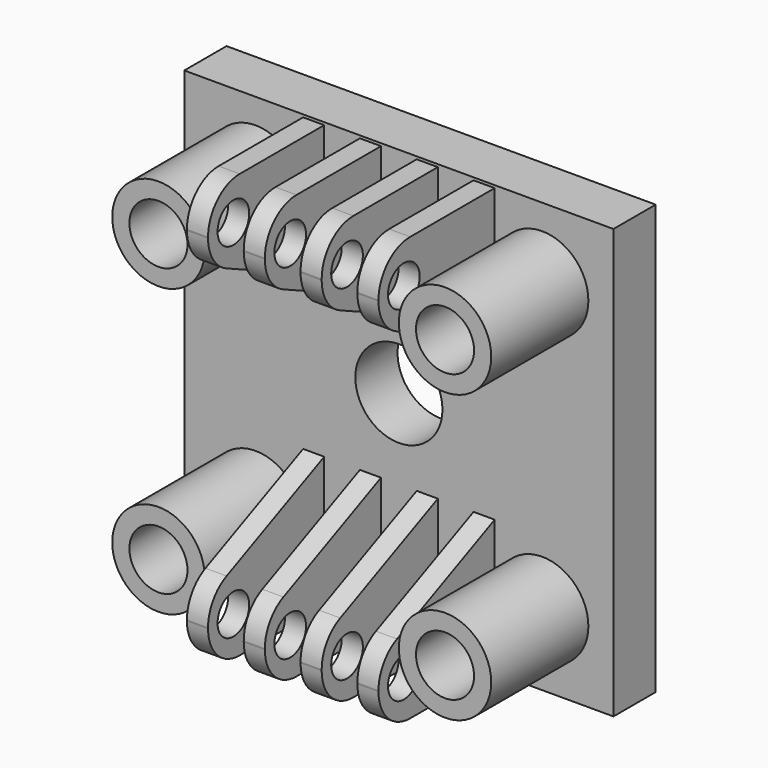
from build123d import *

# Parameters (mm, degrees)
F0_W      = 812.8
F0_H      = 812.8
F0_R      = 55
F0_R_2    = 82.5
F1_DEPTH  = 100
F2_R      = 87.5
F2_R_2    = 55
F3_DEPTH  = 230
F4_W      = 40
F4_H      = 250
F5_DEPTH  = 275
F7_DEPTH  = 362.8
F8_R      = 75
F9_R      = 37.5
F10_DEPTH = 362.8


with BuildPart() as f1:
    # F0 (on Front) → F1 (new body)
    with BuildSketch(Plane.XZ):
        Rectangle(F0_W, F0_H)
        with Locations((-271.4, -271.4)):
            Circle(F0_R, mode=Mode.SUBTRACT)
        Circle(F0_R_2, mode=Mode.SUBTRACT)
        with Locations((271.4, -271.4)):
            Circle(F0_R, mode=Mode.SUBTRACT)
        with Locations((-271.4, 271.4)):
            Circle(F0_R, mode=Mode.SUBTRACT)
        with Locations((271.4, 271.4)):
            Circle(F0_R, mode=Mode.SUBTRACT)
    extrude(amount=F1_DEPTH)

    # F2 (on face) → F3 (join)
    with BuildSketch(Plane.XZ.offset(100)):
        with Locations((-271.4, 271.4)):
            Circle(F2_R)
        with Locations((-271.4, 271.4)):
            Circle(F2_R_2, mode=Mode.SUBTRACT)
        with Locations((271.4, 271.4)):
            Circle(F2_R)
        with Locations((271.4, 271.4)):
            Circle(F2_R_2, mode=Mode.SUBTRACT)
        with Locations((271.4, -271.4)):
            Circle(F2_R)
        with Locations((271.4, -271.4)):
            Circle(F2_R_2, mode=Mode.SUBTRACT)
        with Locations((-271.4, -271.4)):
            Circle(F2_R)
        with Locations((-271.4, -271.4)):
            Circle(F2_R_2, mode=Mode.SUBTRACT)
    extrude(amount=F3_DEPTH)

    # F4 (on face) → F5 (join)
    with BuildSketch(Plane.XZ.offset(100)):
        with Locations((-53.8, 276.4)):
            Rectangle(F4_W, F4_H)
        with Locations((53.8, 276.4)):
            Rectangle(F4_W, F4_H)
        with Locations((161.4, 276.4)):
            Rectangle(F4_W, F4_H)
        with Locations((161.4, -276.4)):
            Rectangle(F4_W, F4_H)
        with Locations((53.8, -276.4)):
            Rectangle(F4_W, F4_H)
        with Locations((-53.8, -276.4)):
            Rectangle(F4_W, F4_H)
        with Locations((-161.4, 276.4)):
            Rectangle(F4_W, F4_H)
        with Locations((-161.4, -276.4)):
            Rectangle(F4_W, F4_H)
    extrude(amount=F5_DEPTH)

    # F6 (on face) → F7 (cut, through all)
    with BuildSketch(Plane(origin=(-181.4, 0, 0), x_dir=(0, -1, 0), z_dir=(-1, 0, 0))):
        Polygon((375, 151.4), (375, 276.4), (100, 151.4), align=None)
        Polygon((375, -151.4), (100, -151.4), (375, -276.4), align=None)
    extrude(amount=-F7_DEPTH, mode=Mode.SUBTRACT)

    # F8
    f8_edges = [f1.edges().sort_by_distance(p)[0] for p in [
        (161.4, -375, 401.4),
        (161.4, -375, 276.4),
        (53.8, -375, 401.4),
        (53.8, -375, 276.4),
        (-53.8, -375, 401.4),
        (-53.8, -375, 276.4),
        (-161.4, -375, 401.4),
        (-161.4, -375, 276.4),
        (-161.4, -375, -276.4),
        (-161.4, -375, -401.4),
        (-53.8, -375, -276.4),
        (-53.8, -375, -401.4),
        (53.8, -375, -276.4),
        (53.8, -375, -401.4),
        (161.4, -375, -276.4),
        (161.4, -375, -401.4),
    ]]
    fillet(f8_edges, radius=F8_R)

    # F9 (on face) → F10 (cut, through all)
    with BuildSketch(Plane(origin=(-181.4, 0, 0), x_dir=(0, -1, 0), z_dir=(-1, 0, 0))):
        with Locations((315, 326.4)):
            Circle(F9_R)
        with Locations((315, -326.4)):
            Circle(F9_R)
    extrude(amount=-F10_DEPTH, mode=Mode.SUBTRACT)


solid = f1.part
